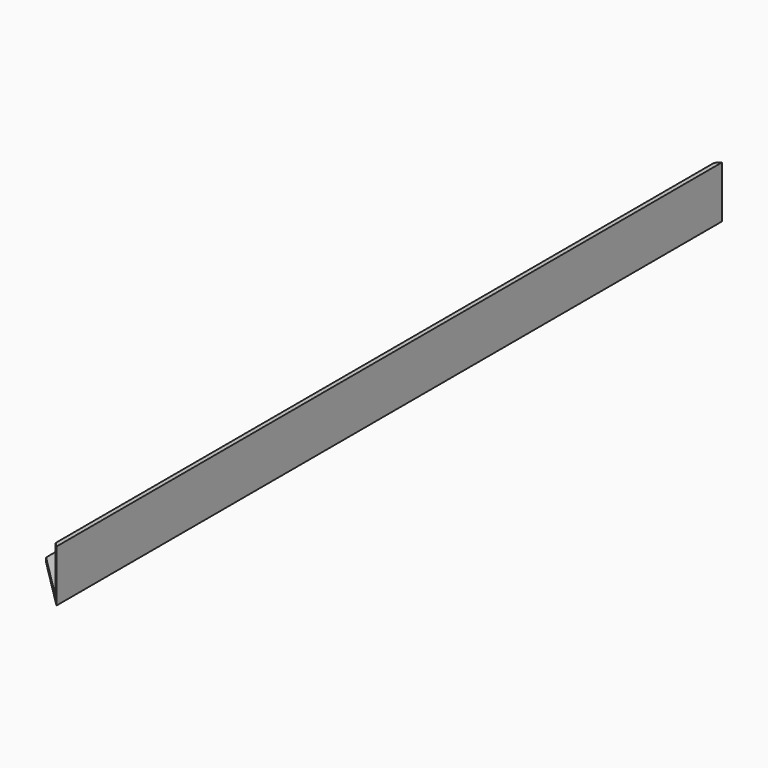
from build123d import *

# Parameters (mm, degrees)
F1_DEPTH = 1219.2
F3_DEPTH = 76.2


with BuildPart() as f1:
    # F0 (on Front) → F1 (new body)
    with BuildSketch(Plane.XZ):
        Polygon((0, 0), (0, 76.2), (-6.35, 76.2), (-6.35, 6.35), (-76.2, 6.35), (-76.2, 0), align=None)
    extrude(amount=-F1_DEPTH)

    # F2 (on face) → F3 (cut)
    with BuildSketch(Plane.XY.offset(76.2)):
        Polygon((0, 1219.2), (-76.2, 1219.2), (-76.2, 1143), align=None)
        Polygon((-76.2, 0), (0, 0), (-76.2, 76.2), align=None)
    extrude(amount=-F3_DEPTH, mode=Mode.SUBTRACT)


solid = f1.part
